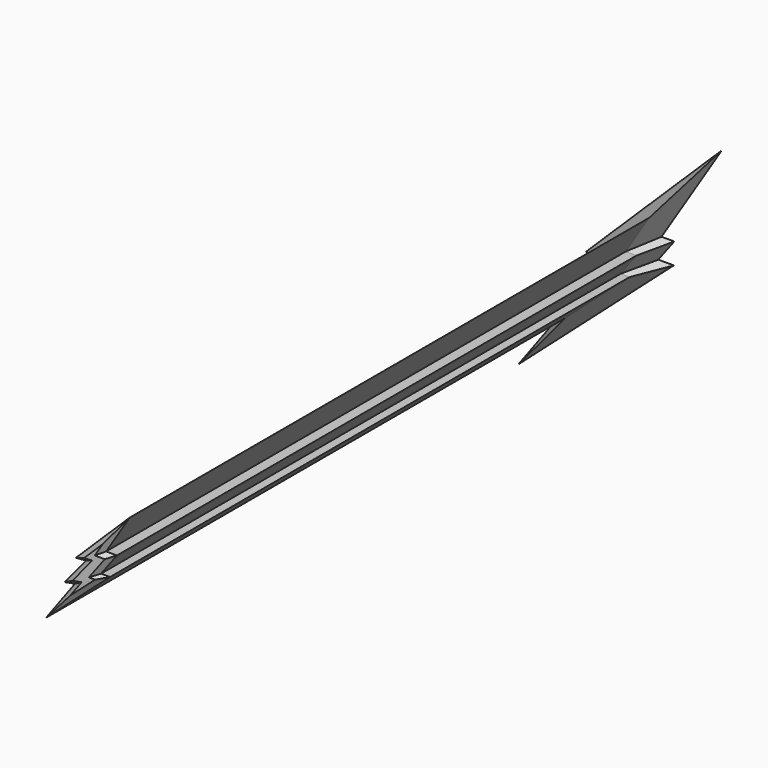
from build123d import *

# Parameters (mm, degrees)
F1_DEPTH = 150
F2_DEPTH = 5
F2_TAPER = -25
F3_SIZE  = 1


with BuildPart() as f1:
    # F0 (on Front) → F1 (new body)
    with BuildSketch(Plane.XZ):
        Polygon((6.776461585, 9.0722467188), (-5.5767488922, -3.059325051), (-3.258036708, -2.8919032872), (-8.1410452514, -8.8131905165), (-5.7786260987, -8.3639572937), (-12.4195150821, -17.3975064051), (2.255862786, -4.3973731032), (0.1915401989, -4.3973731032), (3.8383661048, 0.4654207636), (1.3486526159, 0.4654207636), align=None)
    extrude(amount=F1_DEPTH)

    # F1_face (on face) → F2 (join)
    with BuildSketch(Plane(origin=(-2.1628477345, 0, -4.133992699), x_dir=(1, 0, 0), z_dir=(0, 1, 0))):
        Polygon((2.3543879334, 0.2633804043), (4.4187105205, 0.2633804043), (-10.2566673476, 13.2635137061), (-3.6157783642, 4.2299645948), (-5.9781975168, 4.6791978175), (-1.0951889734, -1.2420894118), (-3.4139011576, -1.074667648), (8.9393093195, -13.2062394177), (3.5115003504, -4.5994134625), (6.0012138393, -4.5994134625), align=None)
    extrude(amount=F2_DEPTH, taper=F2_TAPER)

    # F3
    f3_edges = [f1.edges().sort_by_distance(p)[0] for p in [
        (-5.081826, -150, -10.89744),
        (2.014953, -150, -1.965976),
        (1.223701, -150, -4.397373),
        (2.593509, -150, 0.465421),
        (4.062557, -150, 4.768834),
        (0.599856, -150, 3.006461),
        (-4.417393, -150, -2.975614),
        (-5.699541, -150, -5.852547),
        (-6.959836, -150, -8.588574),
        (-9.099071, -150, -12.880732),
    ]]
    chamfer(f3_edges, length=F3_SIZE)


solid = f1.part
